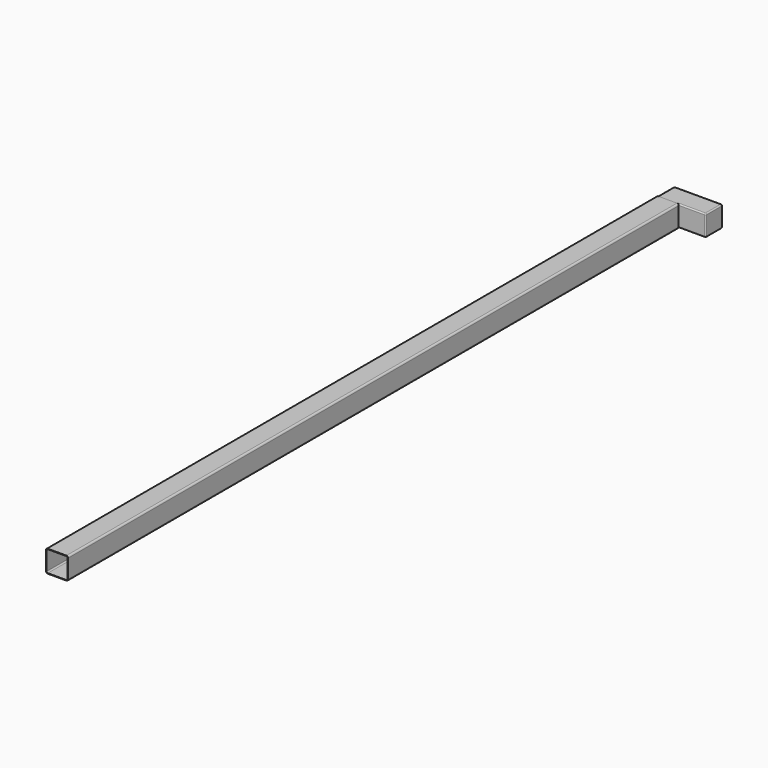
from build123d import *

# Parameters (mm, degrees)
F3_DEPTH = 2250
F4_DEPTH = 63.5
F5_W     = 62
F5_H     = 3.5
F5_H_2   = 27.5
F6_DEPTH = 25
F8_DEPTH = 80
F9_R     = 3.5


with BuildPart() as f3:
    # F2 (on Front) → F3 (new body)
    with BuildSketch(Plane.XZ):
        with BuildLine():
            ThreePointArc((32.5, 27.5), (31.0355339059, 31.0355339059), (27.5, 32.5))
            Line((27.5, 32.5), (-27.5, 32.5))
            ThreePointArc((-27.5, 32.5), (-31.0355339059, 31.0355339059), (-32.5, 27.5))
            Line((-32.5, 27.5), (-32.5, -27.5))
            ThreePointArc((-32.5, -27.5), (-31.0355339059, -31.0355339059), (-27.5, -32.5))
            Line((-27.5, -32.5), (27.5, -32.5))
            ThreePointArc((27.5, -32.5), (31.0355339059, -31.0355339059), (32.5, -27.5))
            Line((32.5, -27.5), (32.5, 27.5))
        make_face()
        with BuildLine():
            ThreePointArc((27.5, 31), (29.9748737342, 29.9748737342), (31, 27.5))
            Line((31, 27.5), (31, -27.5))
            ThreePointArc((31, -27.5), (29.9748737342, -29.9748737342), (27.5, -31))
            Line((27.5, -31), (-27.5, -31))
            ThreePointArc((-27.5, -31), (-29.9748737342, -29.9748737342), (-31, -27.5))
            Line((-31, -27.5), (-31, 27.5))
            ThreePointArc((-31, 27.5), (-29.9748737342, 29.9748737342), (-27.5, 31))
            Line((-27.5, 31), (27.5, 31))
        make_face(mode=Mode.SUBTRACT)
    extrude(amount=F3_DEPTH)

    # F2 (on Front) → F4 (join, symmetric)
    with BuildSketch(Plane.XZ):
        with BuildLine():
            Line((31, -27.5), (31, 27.5))
            ThreePointArc((31, 27.5), (29.9748737342, 29.9748737342), (27.5, 31))
            Line((27.5, 31), (-27.5, 31))
            ThreePointArc((-27.5, 31), (-29.9748737342, 29.9748737342), (-31, 27.5))
            Line((-31, 27.5), (-31, -27.5))
            ThreePointArc((-31, -27.5), (-29.9748737342, -29.9748737342), (-27.5, -31))
            Line((-27.5, -31), (27.5, -31))
            ThreePointArc((27.5, -31), (29.9748737342, -29.9748737342), (31, -27.5))
        make_face()
    extrude(amount=F4_DEPTH, both=True)

    # F5 (on face) → F6 (join)
    with BuildSketch(Plane.YZ.offset(31)):
        with Locations((32.5, 29.25)):
            Rectangle(F5_W, F5_H)
        with Locations((32.5, 13.75)):
            Rectangle(F5_W, F5_H_2)
        with Locations((32.5, -13.75)):
            Rectangle(F5_W, F5_H_2)
        with Locations((32.5, -29.25)):
            Rectangle(F5_W, F5_H)
    extrude(amount=-F6_DEPTH)

    # F7 (on face) → F8 (join)
    with BuildSketch(Plane.YZ.offset(31)):
        Polygon((63.5, 31), (1.5, 31), (1.5, 27.5), (1.5, -27.5), (1.5, -31), (63.5, -31), align=None)
        Polygon((63.5, 31), (1.5, 31), (1.5, 27.5), (1.5, -27.5), (1.5, -31), (63.5, -31), align=None)
        Polygon((63.5, 31), (1.5, 31), (1.5, 27.5), (1.5, -27.5), (1.5, -31), (63.5, -31), align=None)
    extrude(amount=F8_DEPTH)

    # F9
    f9_edges = [f3.edges().sort_by_distance(p)[0] for p in [
        (41.75, 63.5, 31),
        (69.25, 1.5, 31),
        (69.25, 1.5, -31),
        (111, 1.5, 0),
        (111, 32.5, -31),
        (111, 63.5, 0),
        (111, 32.5, 31),
        (41.75, 63.5, -31),
    ]]
    fillet(f9_edges, radius=F9_R)


solid = f3.part
